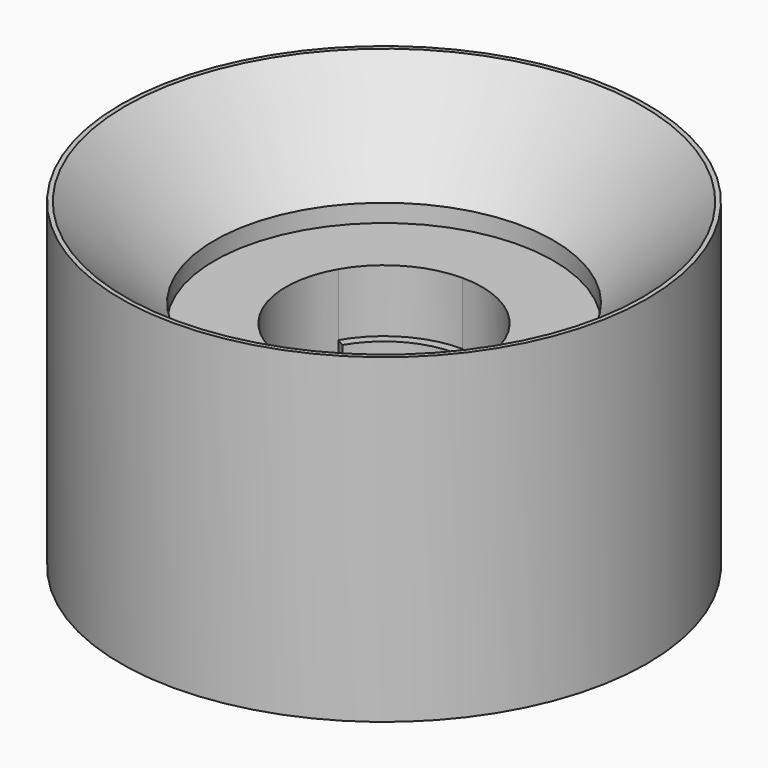
from build123d import *

# Parameters (mm, degrees)
F0_R     = 19
F1_DEPTH = 24
F2_R     = 11
F3_DEPTH = 7
F4_R     = 11
F5_DEPTH = 7
F6_R     = 29.5
F6_R_2   = 19
F7_DEPTH = 36
F8_SIZE  = 10


with BuildPart() as f1:
    # F0 (on Top) → F1 (new body)
    with BuildSketch(Plane.XY):
        Circle(F0_R)
        with BuildLine():
            ThreePointArc((-9.5262794416, 5.5), (-5.5, 9.5262794416), (0, 11))
            ThreePointArc((0, 11), (5.5, 9.5262794416), (9.5262794416, 5.5))
            ThreePointArc((9.5262794416, 5.5), (10.6251840892, 2.8470094961), (11, 0))
            ThreePointArc((11, 0), (10.6251840892, -2.8470094961), (9.5262794416, -5.5))
            ThreePointArc((9.5262794416, -5.5), (5.5, -9.5262794416), (0, -11))
            ThreePointArc((0, -11), (-5.5, -9.5262794416), (-9.5262794416, -5.5))
            ThreePointArc((-9.5262794416, -5.5), (-11, 0), (-9.5262794416, 5.5))
        make_face(mode=Mode.SUBTRACT)
        with BuildLine():
            ThreePointArc((11, 0), (10.6251840892, 2.8470094961), (9.5262794416, 5.5))
            Line((9.5262794416, 5.5), (8.6602540378, 5))
            ThreePointArc((8.6602540378, 5), (10, 0), (8.6602540378, -5))
            Line((8.6602540378, -5), (9.5262794416, -5.5))
            ThreePointArc((9.5262794416, -5.5), (10.6251840892, -2.8470094961), (11, 0))
        make_face()
        with BuildLine():
            ThreePointArc((-8.6602540378, 5), (-5, 8.6602540378), (0, 10))
            Line((0, 10), (0, 11))
            ThreePointArc((0, 11), (-5.5, 9.5262794416), (-9.5262794416, 5.5))
            Line((-9.5262794416, 5.5), (-8.6602540378, 5))
        make_face()
        with BuildLine():
            Line((-8.6602540378, -5), (-9.5262794416, -5.5))
            ThreePointArc((-9.5262794416, -5.5), (-5.5, -9.5262794416), (0, -11))
            Line((0, -11), (0, -10))
            ThreePointArc((0, -10), (-5, -8.6602540378), (-8.6602540378, -5))
        make_face()
    extrude(amount=F1_DEPTH)

    # F2 (on Top) → F3 (cut)
    with BuildSketch(Plane.XY):
        Circle(F2_R)
    extrude(amount=F3_DEPTH, mode=Mode.SUBTRACT)

    # F4 (on face) → F5 (cut)
    with BuildSketch(Plane.XY.offset(24)):
        Circle(F4_R)
    extrude(amount=-F5_DEPTH, mode=Mode.SUBTRACT)

    # F6 (on Top) → F7 (join)
    with BuildSketch(Plane.XY):
        Circle(F6_R)
        Circle(F6_R_2, mode=Mode.SUBTRACT)
    extrude(amount=F7_DEPTH)

    # F8
    f8_edges = [f1.edges().sort_by_distance(p)[0] for p in [
        (-19, 0, 36),
    ]]
    chamfer(f8_edges, length=F8_SIZE)


solid = f1.part
